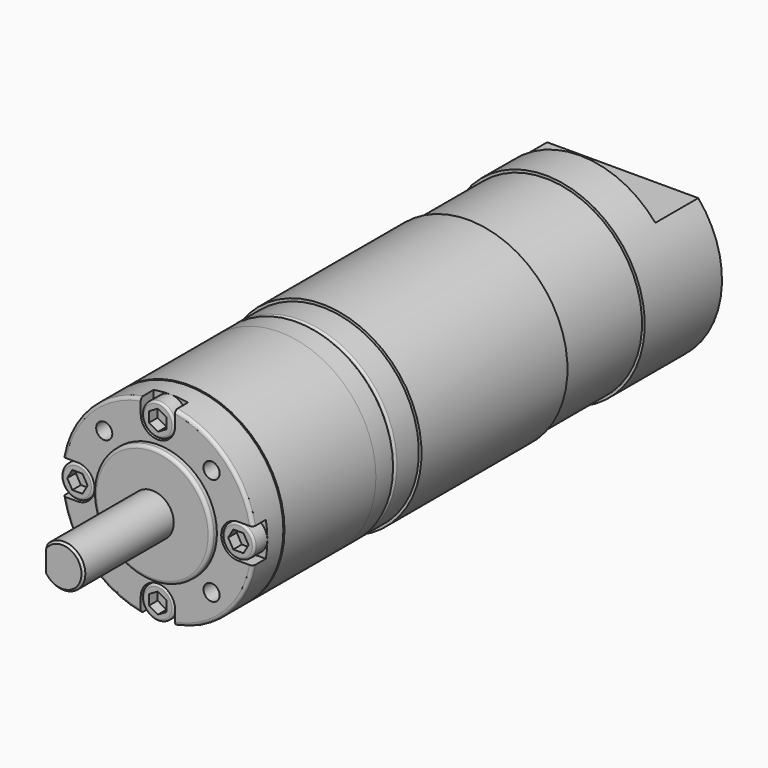
from build123d import *

# Parameters (mm, degrees)
SKETCH001_R           = 17.5
PAD_DEPTH             = 0.5
SKETCH002_R           = 18
PAD001_DEPTH          = 57.5
SKETCH003_R           = 11
PAD002_DEPTH          = 1.3
SKETCH004_R           = 4
PAD003_DEPTH          = 21
FILLET_R              = 0.4
FILLET001_R           = 0.6
CHAMFER_SIZE          = 0.4
SKETCH005_R           = 1.5
POCKET_DEPTH          = 5
POLARPATTERN_COUNT    = 4
POCKET001_DEPTH       = 3
POLARPATTERN001_COUNT = 4
SKETCH007_R           = 3
PAD004_DEPTH          = 3
POLARPATTERN002_COUNT = 4
FILLET002_R           = 0.4
POCKET002_DEPTH       = 2
POLARPATTERN003_COUNT = 4
SKETCH009_W           = 3
SKETCH009_H           = 6
POCKET003_DEPTH       = 15
SKETCH010_R           = 18
SKETCH010_R_2         = 17.5
PAD005_DEPTH          = 21.3
SKETCH011_R           = 18.5
SKETCH011_R_2         = 18
PAD006_DEPTH          = 34
SKETCH012_R           = 18.5
PAD007_DEPTH          = 18
SKETCH013_W           = 35
SKETCH013_H           = 12
POCKET004_DEPTH       = 10


with BuildPart() as body:
    # Sketch → Revolution (revolve)
    with BuildSketch(Plane.XY):
        Polygon((0, 0), (0, 32.3), (18, 32.3), (18, 28.3), (17, 28.3), (17, 7), (18, 7), (18, 0), align=None)
    revolve(axis=Axis((0, 0, 0), (0, 1, 0)))

    # Sketch001 (on Face1 of Revolution) → Pad (new body)
    with BuildSketch(Plane(origin=(0, 32.3, 0), x_dir=(-1, 0, 0), z_dir=(0, 1, 0))):
        Circle(SKETCH001_R)
    extrude(amount=PAD_DEPTH)

    # Sketch002 (on Face5 of Pad) → Pad001 (join)
    with BuildSketch(Plane(origin=(0, 32.8, 0), x_dir=(-1, 0, 0), z_dir=(0, 1, 0))):
        Circle(SKETCH002_R)
    extrude(amount=PAD001_DEPTH)

    # Sketch003 (on Face11 of Pad001) → Pad002 (join)
    with BuildSketch(Plane.XZ):
        Circle(SKETCH003_R)
    extrude(amount=PAD002_DEPTH)

    # Sketch004 (on Face13 of Pad002) → Pad003 (join)
    with BuildSketch(Plane.XZ.offset(1.3)):
        Circle(SKETCH004_R)
    extrude(amount=PAD003_DEPTH)

    # Fillet
    fillet_edges = [body.edges().sort_by_distance(p)[0] for p in [
        (18, 32.8, 0),
        (-18, 7, 0),
        (17.5, 32.3, 0),
        (-17, 28.3, 0),
    ]]
    fillet(fillet_edges, radius=FILLET_R)

    # Fillet001
    fillet001_edges = [body.edges().sort_by_distance(p)[0] for p in [
        (-18, 0, 0),
        (-11, -1.3, 0),
    ]]
    fillet(fillet001_edges, radius=FILLET001_R)

    # Chamfer
    chamfer_edges = [body.edges().sort_by_distance(p)[0] for p in [
        (-4, -22.3, 0),
    ]]
    chamfer(chamfer_edges, length=CHAMFER_SIZE)

    # Sketch005 (on Face7 of Chamfer) → Pocket (cut)
    with BuildSketch(Plane.XZ):
        with Locations((10, -10)):
            Circle(SKETCH005_R)
    pocket = extrude(amount=-POCKET_DEPTH, mode=Mode.SUBTRACT)

    # PolarPattern: Pocket ×4 about axis
    polarpattern_axis = Axis((0, 0, 0), (0, -1, 0))
    for i in range(1, POLARPATTERN_COUNT):
        add(pocket.rotate(polarpattern_axis, i * 360 / POLARPATTERN_COUNT), mode=Mode.SUBTRACT)

    # Sketch006 (on Face7 of PolarPattern) → Pocket001 (cut)
    with BuildSketch(Plane.XZ):
        with BuildLine():
            ThreePointArc((15, 3.2), (11.8, 0), (15, -3.2))
            Line((19, -3.2), (15, -3.2))
            Line((19, 3.2), (19, -3.2))
            Line((15, 3.2), (19, 3.2))
        make_face()
    pocket001 = extrude(amount=-POCKET001_DEPTH, mode=Mode.SUBTRACT)

    # PolarPattern001: Pocket001 ×4 about axis
    polarpattern001_axis = Axis((0, 0, 0), (0, -1, 0))
    for i in range(1, POLARPATTERN001_COUNT):
        add(pocket001.rotate(polarpattern001_axis, i * 360 / POLARPATTERN001_COUNT), mode=Mode.SUBTRACT)

    # Sketch007 (on Face28 of PolarPattern001) → Pad004 (join)
    with BuildSketch(Plane.XZ.offset(-3)):
        with Locations((15, 0)):
            Circle(SKETCH007_R)
    pad004 = extrude(amount=PAD004_DEPTH)

    # PolarPattern002: Pad004 ×4 about axis
    polarpattern002_axis = Axis((0, 3, 0), (0, -1, 0))
    for i in range(1, POLARPATTERN002_COUNT):
        add(pad004.rotate(polarpattern002_axis, i * 360 / POLARPATTERN002_COUNT))

    # Fillet002
    fillet002_edges = [body.edges().sort_by_distance(p)[0] for p in [
        (12, 0, 0),
        (0, 0, 12),
        (-12, 0, 0),
        (0, 0, -12),
    ]]
    fillet(fillet002_edges, radius=FILLET002_R)

    # Sketch008 (on Face4 of Fillet002) → Pocket002 (cut)
    with BuildSketch(Plane.XZ):
        Polygon((15.95, 1.645448), (14.05, 1.645448), (13.1, 0), (14.05, -1.645448), (15.95, -1.645448), (16.9, 0), align=None)
    pocket002 = extrude(amount=-POCKET002_DEPTH, mode=Mode.SUBTRACT)

    # PolarPattern003: Pocket002 ×4 about axis
    polarpattern003_axis = Axis((0, 0, 0), (0, -1, 0))
    for i in range(1, POLARPATTERN003_COUNT):
        add(pocket002.rotate(polarpattern003_axis, i * 360 / POLARPATTERN003_COUNT), mode=Mode.SUBTRACT)

    # Sketch009 (on Face82 of PolarPattern003) → Pocket003 (cut)
    with BuildSketch(Plane.XZ.offset(22.3)):
        with Locations((-4.5, 0)):
            Rectangle(SKETCH009_W, SKETCH009_H)
    extrude(amount=-POCKET003_DEPTH, mode=Mode.SUBTRACT)


with BuildPart() as body001:
    # Sketch010 → Pad005 (new body)
    with BuildSketch(Plane.XZ.offset(-7)):
        Circle(SKETCH010_R)
        Circle(SKETCH010_R_2, mode=Mode.SUBTRACT)
    extrude(amount=-PAD005_DEPTH)


with BuildPart() as body002:
    # Sketch011 → Pad006 (new body)
    with BuildSketch(Plane(origin=(0, 90.3, 0), x_dir=(-1, 0, 0), z_dir=(0, 1, 0))):
        Circle(SKETCH011_R)
        Circle(SKETCH011_R_2, mode=Mode.SUBTRACT)
    extrude(amount=-PAD006_DEPTH)


with BuildPart() as body002_1:
    # Body002 placement: moved
    add(body002.part.moved(Location((0, -18, 0))))


with BuildPart() as body003:
    # Sketch012 (on Face1 of CopyPocket003) → Pad007 (new body)
    with BuildSketch(Plane(origin=(0, 90.3, 0), x_dir=(-1, 0, 0), z_dir=(0, 1, 0))):
        Circle(SKETCH012_R)
    extrude(amount=PAD007_DEPTH)

    # Sketch013 (on Face3 of Pad007) → Pocket004 (cut)
    with BuildSketch(Plane(origin=(0, 108.3, 0), x_dir=(-1, 0, 0), z_dir=(0, 1, 0))):
        with Locations((0, 18)):
            Rectangle(SKETCH013_W, SKETCH013_H)
    extrude(amount=-POCKET004_DEPTH, mode=Mode.SUBTRACT)


solid = Compound([body.part, body001.part, body002_1.part, body003.part])
